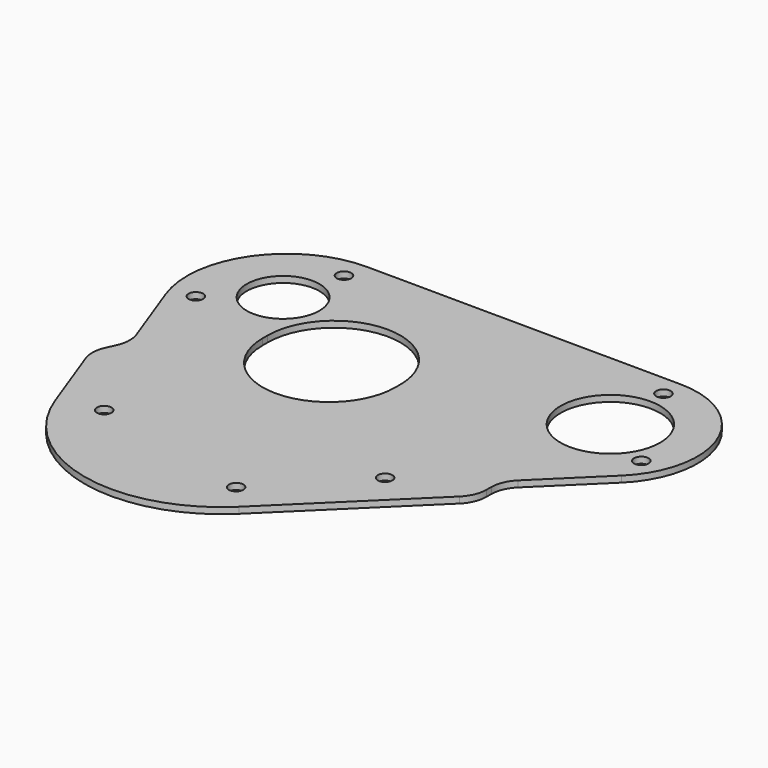
from build123d import *

# Parameters (mm, degrees)
F0_R     = 3.5
F0_R_2   = 17.5
F0_R_3   = 24
F1_DEPTH = 3


with BuildPart() as f1:
    # F0 (on Top) → F1 (new body)
    with BuildSketch(Plane.XY):
        with BuildLine():
            Line((154.276346, 9.999091), (2.315824, 10.998961))
            ThreePointArc((2.315824, 10.998961), (-37.275268, -9.405556), (-43.049419, -53.569546))
            Line((-43.049419, -53.569546), (-31.011758, -86.297638))
            ThreePointArc((-31.011758, -86.297638), (-30.101849, -92.079184), (-31.473705, -97.768843))
            Line((-31.473705, -97.768843), (-33.380198, -101.893724))
            ThreePointArc((-33.380198, -101.893724), (-34.752053, -107.583383), (-33.842145, -113.364929))
            Line((-33.842145, -113.364929), (-21.310521, -147.436013))
            ThreePointArc((-21.310521, -147.436013), (26.12288, -189.038234), (86.815639, -171.802768))
            Line((86.815639, -171.802768), (146.405169, -113.43495))
            ThreePointArc((146.405169, -113.43495), (149.706985, -108.602536), (150.908181, -102.874418))
            Line((150.908181, -102.874418), (150.938576, -99.93974))
            ThreePointArc((150.938576, -99.93974), (152.139772, -94.211622), (155.441588, -89.379208))
            Line((155.441588, -89.379208), (183.389314, -62.00447))
            ThreePointArc((183.389314, -62.00447), (192.937656, -16.256463), (154.276346, 9.999091))
        make_face()
        with Locations((-2, -142)):
            Circle(F0_R, mode=Mode.SUBTRACT)
        with Locations((76, -160)):
            Circle(F0_R, mode=Mode.SUBTRACT)
        with Locations((115, -119)):
            Circle(F0_R, mode=Mode.SUBTRACT)
        with Locations((-33, -48)):
            Circle(F0_R, mode=Mode.SUBTRACT)
        with BuildLine():
            ThreePointArc((8, -56), (40, -24), (72, -56))
            Line((72, -56), (72, -59))
            ThreePointArc((72, -59), (40, -91), (8, -59))
            Line((8, -59), (8, -56))
        make_face(mode=Mode.SUBTRACT)
        with Locations((-6.838835, -28.161165)):
            Circle(F0_R_2, mode=Mode.SUBTRACT)
        Circle(F0_R, mode=Mode.SUBTRACT)
        with Locations((181.712813, -48)):
            Circle(F0_R, mode=Mode.SUBTRACT)
        with Locations((154, -32)):
            Circle(F0_R_3, mode=Mode.SUBTRACT)
        with Locations((154, 0)):
            Circle(F0_R, mode=Mode.SUBTRACT)
    extrude(amount=F1_DEPTH)


solid = f1.part
